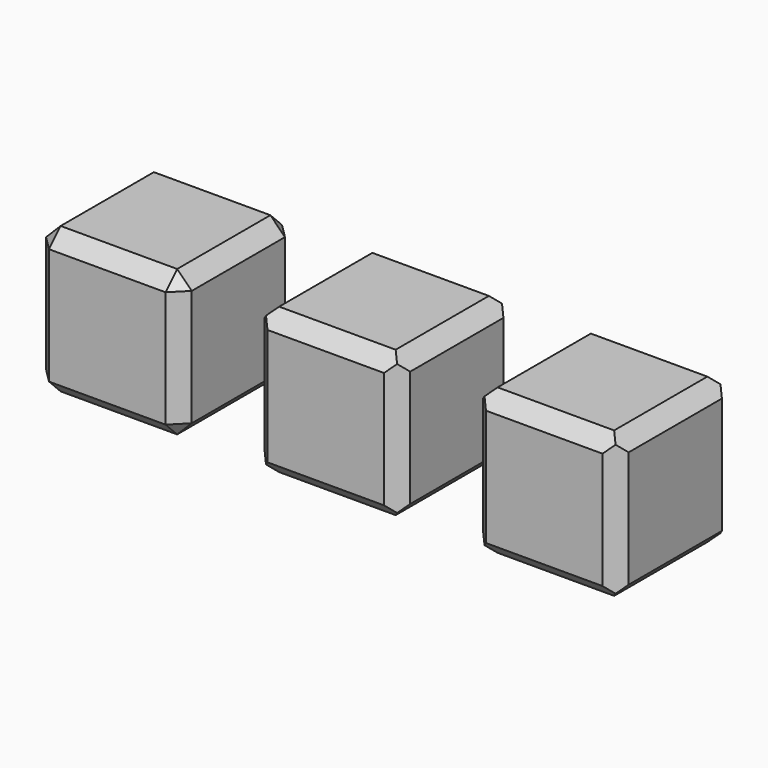
from build123d import *

# Parameters (mm, degrees)
F0_W     = 100
F0_H     = 100
F1_DEPTH = 100
F2_SIZE  = 10
F3_SIZE  = 10
F4_SIZE  = 10
F5_SIZE  = 10
F6_SIZE  = 10
F7_SIZE  = 10


with BuildPart() as f1:
    # F0 (on Top) → F1 (new body)
    with BuildSketch(Plane.XY):
        with Locations((-75, 0)):
            Rectangle(F0_W, F0_H)
        with Locations((75, 0)):
            Rectangle(F0_W, F0_H)
        with Locations((225, 0)):
            Rectangle(F0_W, F0_H)
    extrude(amount=F1_DEPTH)

    # F2
    f2_edges = [f1.edges().sort_by_distance(p)[0] for p in [
        (-75, 50, 100),
        (-125, 0, 100),
        (-75, -50, 100),
        (-25, 0, 100),
        (-25, -50, 50),
        (-25, 50, 50),
        (-25, 0, 0),
        (-125, -50, 50),
        (-75, -50, 0),
        (-125, 50, 50),
        (-75, 50, 0),
        (-125, 0, 0),
    ]]
    chamfer(f2_edges, length=F2_SIZE)

    # F3
    f3_edges = [f1.edges().sort_by_distance(p)[0] for p in [
        (75, -50, 100),
        (75, 50, 100),
        (75, -50, 0),
        (75, 50, 0),
    ]]
    chamfer(f3_edges, length=F3_SIZE)

    # F4
    f4_edges = [f1.edges().sort_by_distance(p)[0] for p in [
        (25, 0, 100),
        (125, 0, 100),
        (125, 0, 0),
        (25, 0, 0),
    ]]
    chamfer(f4_edges, length=F4_SIZE)

    # F5
    f5_edges = [f1.edges().sort_by_distance(p)[0] for p in [
        (25, 50, 50),
        (25, -50, 50),
        (125, -50, 50),
        (125, 50, 50),
    ]]
    chamfer(f5_edges, length=F5_SIZE)

    # F6
    f6_edges = [f1.edges().sort_by_distance(p)[0] for p in [
        (225, 50, 100),
        (175, 0, 100),
        (225, -50, 100),
        (275, 0, 100),
        (225, 50, 0),
        (175, 0, 0),
        (225, -50, 0),
        (275, 0, 0),
    ]]
    chamfer(f6_edges, length=F6_SIZE)

    # F7
    f7_edges = [f1.edges().sort_by_distance(p)[0] for p in [
        (275, -50, 50),
        (175, -50, 50),
        (175, 50, 50),
        (275, 50, 50),
    ]]
    chamfer(f7_edges, length=F7_SIZE)


solid = f1.part
